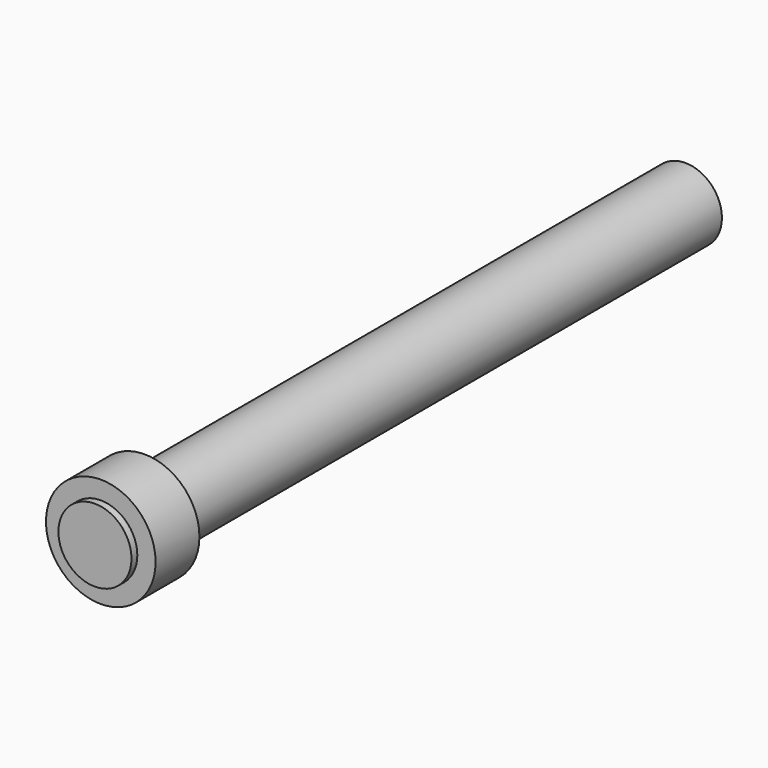
from build123d import *

# Parameters (mm, degrees)
F0_R     = 10
F1_DEPTH = 2
F0_R_2   = 15
F2_DEPTH = 15
F3_DEPTH = 200


with BuildPart() as f1:
    # F0 (on Front) → F1 (new body)
    with BuildSketch(Plane.XZ):
        with Locations((-24.82326, 23.143079)):
            Circle(F0_R)
    extrude(amount=F1_DEPTH)


with BuildPart() as f2:
    # F0 (on Front) → F2 (new body)
    with BuildSketch(Plane.XZ):
        with Locations((-24.82326, 23.143079)):
            Circle(F0_R_2)
        with Locations((-24.82326, 23.143079)):
            Circle(F0_R, mode=Mode.SUBTRACT)
    extrude(amount=-F2_DEPTH)


with BuildPart() as f3:
    # F0 (on Front) → F3 (new body)
    with BuildSketch(Plane.XZ):
        with Locations((-24.82326, 23.143079)):
            Circle(F0_R)
    extrude(amount=-F3_DEPTH)


solid = Compound([f1.part, f2.part, f3.part])
